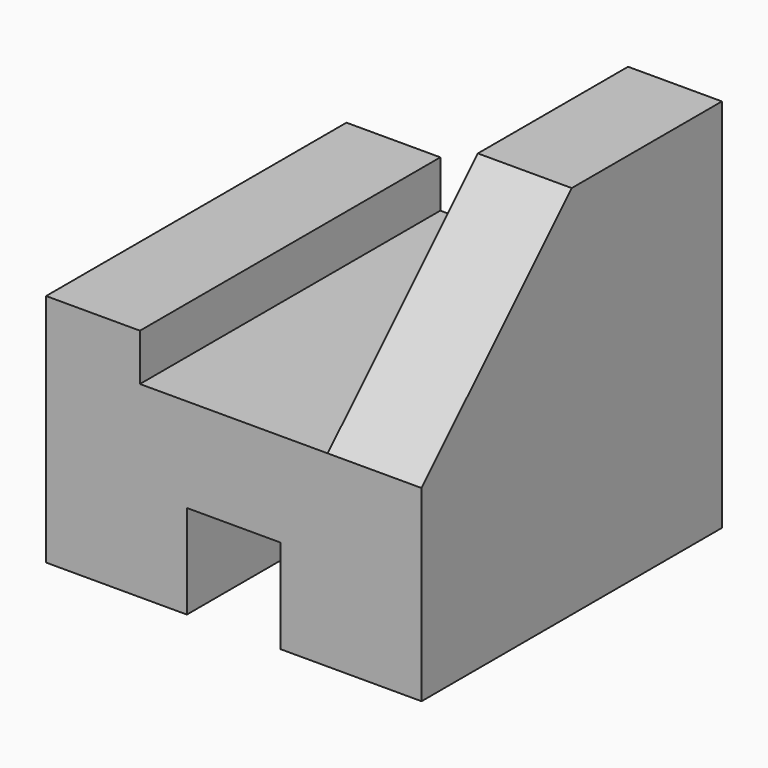
from build123d import *

# Parameters (mm, degrees)
F0_W     = 101.6
F0_H     = 101.6
F1_DEPTH = 101.6
F3_DEPTH = 101.6
F5_DEPTH = 25.4
F6_W     = 25.4
F6_H     = 25.4
F7_DEPTH = 101.6


with BuildPart() as f1:
    # F0 (on Front) → F1 (new body)
    with BuildSketch(Plane.XZ):
        with Locations((-103.523429, -35.297956)):
            Rectangle(F0_W, F0_H)
    extrude(amount=F1_DEPTH)

    # F2 (on face) → F3 (cut)
    with BuildSketch(Plane.XZ.offset(101.6)):
        Polygon((-78.123429, -35.297956), (-78.123429, 15.502044), (-154.323429, 15.502044), (-154.323429, -22.597956), (-128.923429, -22.597956), (-128.923429, -35.297956), align=None)
    extrude(amount=-F3_DEPTH, mode=Mode.SUBTRACT)

    # F4 (on face) → F5 (cut)
    with BuildSketch(Plane.YZ.offset(-52.723429)):
        Polygon((-101.6, 15.502044), (-101.6, -35.297956), (-50.8, 15.502044), align=None)
    extrude(amount=-F5_DEPTH, mode=Mode.SUBTRACT)

    # F6 (on face) → F7 (cut)
    with BuildSketch(Plane(origin=(0, 0, 0), x_dir=(-1, 0, 0), z_dir=(0, 1, 0))):
        with Locations((103.523429, -73.397956)):
            Rectangle(F6_W, F6_H)
    extrude(amount=-F7_DEPTH, mode=Mode.SUBTRACT)


solid = f1.part
